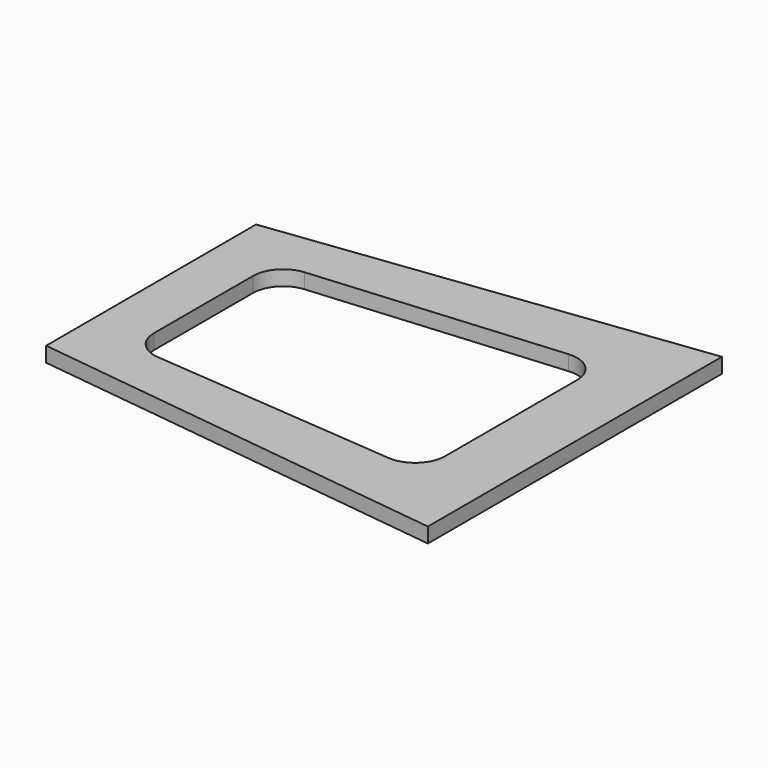
from build123d import *

# Parameters (mm, degrees)
F1_DEPTH = 4


with BuildPart() as f1:
    # F0 (on Top) → F1 (new body)
    with BuildSketch(Plane.XY):
        Polygon((113, 49), (0, 35), (0, -35), (113, -49), align=None)
        with BuildLine():
            Line((14, -16.5), (14, 16.5))
            ThreePointArc((14, 16.5), (16.112942, 21.916876), (21.335636, 24.472366))
            Line((21.335636, 24.472366), (87.335636, 29.972366))
            ThreePointArc((87.335636, 29.972366), (93.416876, 27.887058), (96, 22))
            Line((96, 22), (96, -22))
            ThreePointArc((96, -22), (93.416876, -27.887058), (87.335636, -29.972366))
            Line((87.335636, -29.972366), (21.335636, -24.472366))
            ThreePointArc((21.335636, -24.472366), (16.112942, -21.916876), (14, -16.5))
        make_face(mode=Mode.SUBTRACT)
    extrude(amount=F1_DEPTH)


solid = f1.part
